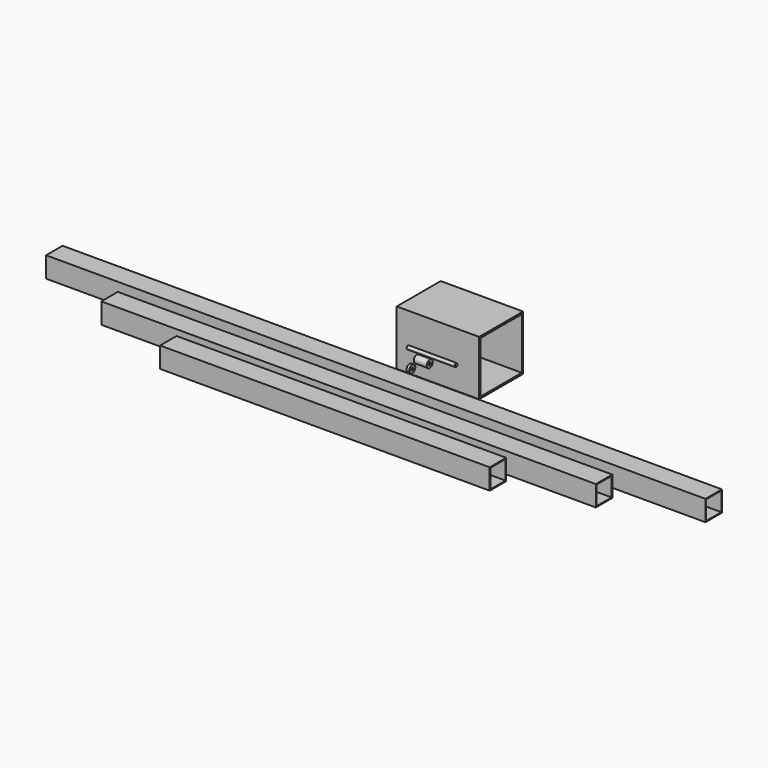
from build123d import *

# Parameters (mm, degrees)
F0_W      = 38.1
F0_H      = 38.1
F0_W_2    = 35.052
F0_H_2    = 35.052
F3_DEPTH  = 609.6
F2_R      = 2.5
F4_DEPTH  = 50.8
F1_R      = 7
F1_R_2    = 2.5
F5_DEPTH  = 2.5
F6_DEPTH  = 457.2
F7_DEPTH  = 304.8
F8_R      = 7
F9_DEPTH  = 12
F10_R     = 2.5
F11_DEPTH = 12
F12_R     = 3.175
F13_DEPTH = 12
F14_R     = 3.175
F15_DEPTH = 44.45
F16_W     = 101.6
F16_H     = 101.6
F16_W_2   = 95.25
F16_H_2   = 95.25
F17_DEPTH = 76.2


with BuildPart() as f3:
    # F0 (on Right) → F3 (new body, symmetric)
    with BuildSketch(Plane.YZ):
        with Locations((-62.187869, 0)):
            Rectangle(F0_W, F0_H)
        with Locations((-62.187869, 0)):
            Rectangle(F0_W_2, F0_H_2, mode=Mode.SUBTRACT)
    extrude(amount=F3_DEPTH, both=True)


with BuildPart() as f4:
    # F2 (on Right) → F4 (new body, symmetric)
    with BuildSketch(Plane.YZ):
        with Locations((-19.33891, 0)):
            Circle(F2_R)
    extrude(amount=F4_DEPTH, both=True)


with BuildPart() as f5:
    # F1 (on Right) → F5 (new body, symmetric)
    with BuildSketch(Plane.YZ):
        Circle(F1_R)
        Circle(F1_R_2, mode=Mode.SUBTRACT)
    extrude(amount=F5_DEPTH, both=True)


with BuildPart() as f6:
    # F0 (on Right) → F6 (new body, symmetric)
    with BuildSketch(Plane.YZ):
        with Locations((-125.000015, 0)):
            Rectangle(F0_W, F0_H)
        with Locations((-125.000015, 0)):
            Rectangle(F0_W_2, F0_H_2, mode=Mode.SUBTRACT)
    extrude(amount=F6_DEPTH, both=True)


with BuildPart() as f7:
    # F0 (on Right) → F7 (new body, symmetric)
    with BuildSketch(Plane.YZ):
        with Locations((-179.725468, 0)):
            Rectangle(F0_W, F0_H)
        with Locations((-179.725468, 0)):
            Rectangle(F0_W_2, F0_H_2, mode=Mode.SUBTRACT)
    extrude(amount=F7_DEPTH, both=True)


with BuildPart() as f9:
    # F8 (on Right) → F9 (new body, symmetric)
    with BuildSketch(Plane.YZ):
        with Locations((28.581314, 0)):
            Circle(F8_R)
    extrude(amount=F9_DEPTH, both=True)

    # F10 (on face) → F11 (cut)
    with BuildSketch(Plane.YZ.offset(12)):
        with Locations((28.581314, 0)):
            Circle(F10_R)
    extrude(amount=-F11_DEPTH, mode=Mode.SUBTRACT)

    # F12 (on face) → F13 (cut)
    with BuildSketch(Plane(origin=(-12, 0, 0), x_dir=(0, -1, 0), z_dir=(-1, 0, 0))):
        with Locations((-28.581314, 0)):
            Circle(F12_R)
    extrude(amount=-F13_DEPTH, mode=Mode.SUBTRACT)


with BuildPart() as f15:
    # F14 (on Right) → F15 (new body, symmetric)
    with BuildSketch(Plane.YZ):
        with Locations((49.006656, 0)):
            Circle(F14_R)
    extrude(amount=F15_DEPTH, both=True)


with BuildPart() as f17:
    # F16 (on Right) → F17 (new body, symmetric)
    with BuildSketch(Plane.YZ):
        with Locations((113.331243, 0)):
            Rectangle(F16_W, F16_H)
        with Locations((113.331243, 0)):
            Rectangle(F16_W_2, F16_H_2, mode=Mode.SUBTRACT)
    extrude(amount=F17_DEPTH, both=True)


solid = Compound([f3.part, f4.part, f5.part, f6.part, f7.part, f9.part, f15.part, f17.part])
